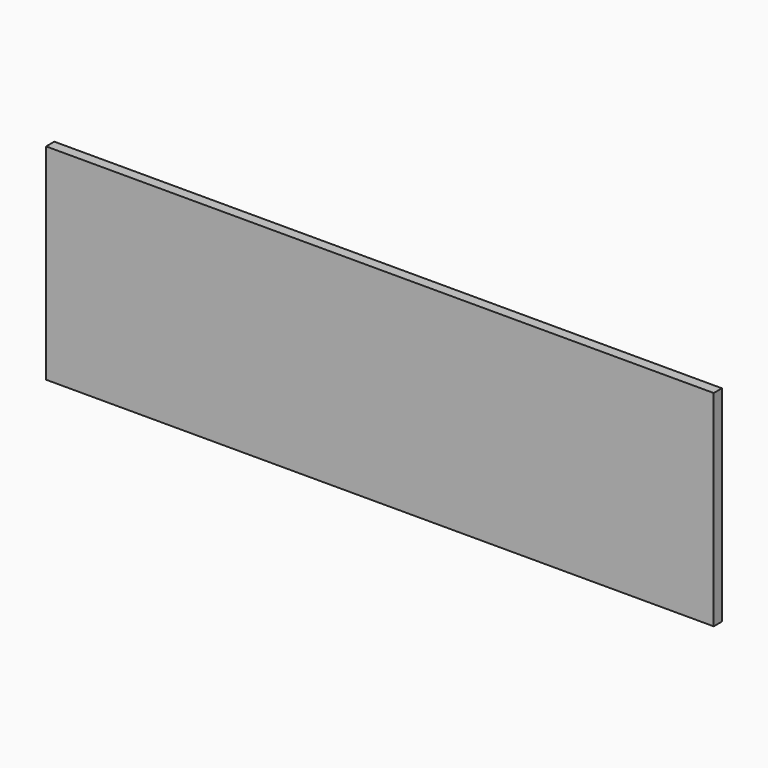
from build123d import *

# Parameters (mm, degrees)
SKETCH002_W                = 65
SKETCH002_H                = 20
PAD001_DEPTH               = 2
SKETCH002_MIRRORED002_2_W  = 65
SKETCH002_MIRRORED002_2_H  = 20
PAD001_MIRRORED002_2_DEPTH = 2


with BuildPart() as part:
    # Sketch002 → Pad001 (new body)
    with BuildSketch(Plane.XZ):
        with Locations((32.5, 10)):
            Rectangle(SKETCH002_W, SKETCH002_H)
    pad001 = extrude(amount=PAD001_DEPTH)

    # Sketch002 Mirrored002 2 → Pad001 Mirrored002 2 (add)
    with BuildSketch(Plane(origin=(0, 0, 0), x_dir=(-1, 0, 0), z_dir=(0, 1, 0))):
        with Locations((32.5, 10)):
            Rectangle(SKETCH002_MIRRORED002_2_W, SKETCH002_MIRRORED002_2_H)
    pad001_mirrored002_2 = extrude(amount=-PAD001_MIRRORED002_2_DEPTH)

    # Mirrored003: Pad001, Pad001 Mirrored002 2 across Sketch002 H_Axis
    add(pad001.mirror(Plane(origin=(0, 0, 0), x_dir=(0, -1, 0), z_dir=(0, 0, 1))))
    add(pad001_mirrored002_2.mirror(Plane(origin=(0, 0, 0), x_dir=(0, -1, 0), z_dir=(0, 0, 1))))


solid = part.part
